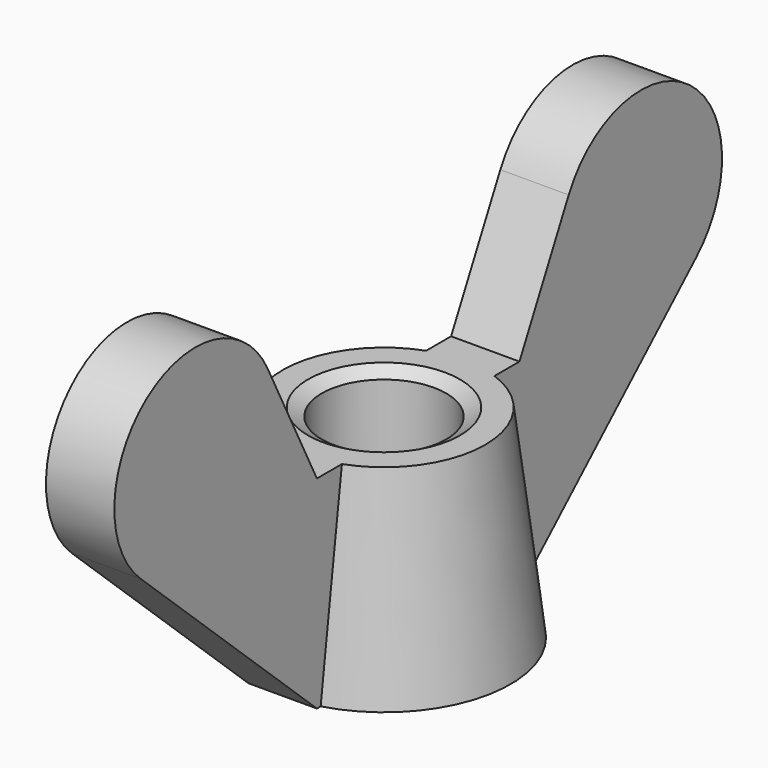
from build123d import *

# Parameters (mm, degrees)
PAD_DEPTH = 1.35


with BuildPart() as pad:
    # Sketch001 → Pad (new body, symmetric)
    with BuildSketch(Plane.YZ):
        with BuildLine():
            Line((3, 0), (3, 8))
            Line((3, 8), (5, 8))
            Line((5, 8), (7.430632, 12.805439))
            ThreePointArc((13.716382, 8.063801), (13.408875, 14.193324), (7.430632, 12.805439))
            Line((5, 0), (13.716382, 8.063801))
            Line((3, 0), (5, 0))
        make_face()
        with BuildLine():
            Line((-13.716382, 8.063801), (-5, 0))
            Line((-5, 0), (-3, 0))
            Line((-3, 0), (-3, 8))
            Line((-3, 8), (-5, 8))
            Line((-5, 8), (-7.430632, 12.805439))
            ThreePointArc((-7.430632, 12.805439), (-13.408875, 14.193324), (-13.716382, 8.063801))
        make_face()
    extrude(amount=PAD_DEPTH, both=True)


with BuildPart() as obj1:
    # Sketch → Revolution (revolve)
    with BuildSketch(Plane.YZ):
        Polygon((3, 0), (2.46, 0.311769), (2.46, 7.688231), (3, 8), (4, 8), (5, 0), align=None)
    revolve(axis=Axis((0, 0, 0), (0, 0, 1)))

    # Fusion: union Pad
    add(pad.part)


solid = obj1.part
